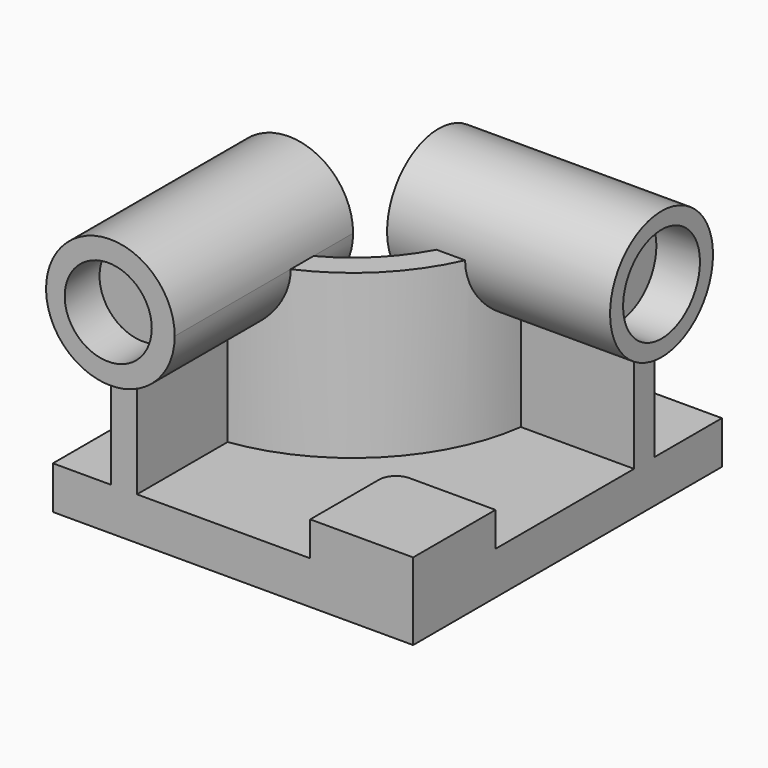
from build123d import *

# Parameters (mm, degrees)
F0_W          = 210
F0_H          = 225
F1_DEPTH      = 25
F3_DEPTH      = 95
F5_DEPTH      = 10
F5_DEPTH_BACK = 120
F7_DEPTH      = 10
F7_DEPTH_BACK = 120
F8_W          = 60
F8_H          = 60
F9_DEPTH      = 20
F10_R         = 10
F12_R         = 25.3785837957
F13_DEPTH     = 25.4
F14_R         = 27.9917909544
F15_DEPTH     = 25.4


with BuildPart() as f1:
    # F0 (on Top) → F1 (new body)
    with BuildSketch(Plane.XY):
        Rectangle(F0_W, F0_H)
    extrude(amount=F1_DEPTH)

    # F2 (on face) → F3 (join)
    with BuildSketch(Plane.XY.offset(25)):
        with BuildLine():
            Line((-71, -32.5), (-71, -112.5))
            Line((-71, -112.5), (-56, -112.5))
            Line((-56, -112.5), (-56, -46.4818166789))
            ThreePointArc((-56, -46.4818166789), (7.4888527117, -14.9888527117), (38.9818166789, 48.5))
            Line((38.9818166789, 48.5), (105, 48.5))
            Line((105, 48.5), (105, 63.5))
            Line((105, 63.5), (25, 63.5))
            ThreePointArc((25, 63.5), (-3.1177490061, -4.3822509939), (-71, -32.5))
        make_face()
    extrude(amount=F3_DEPTH)

    # F4 (on face) → F5 (join, two sides)
    with BuildSketch(Plane.XZ.offset(112.5)) as f5_sk:
        with BuildLine():
            ThreePointArc((-56, 83.2576538583), (-34.4526249034, 96.2829175487), (-26, 120))
            ThreePointArc((-26, 120), (-87.2170824513, 149.0473750966), (-71, 83.2576538583))
            Line((-71, 83.2576538583), (-71, 120))
            Line((-71, 120), (-56, 120))
            Line((-56, 120), (-56, 83.2576538583))
        make_face()
        with BuildLine():
            Line((-71, 120), (-71, 83.2576538583))
            ThreePointArc((-71, 83.2576538583), (-63.5, 82.5), (-56, 83.2576538583))
            Line((-56, 83.2576538583), (-56, 120))
            Line((-56, 120), (-71, 120))
        make_face()
    extrude(amount=F5_DEPTH)
    extrude(f5_sk.sketch, amount=-F5_DEPTH_BACK)

    # F6 (on face) → F7 (join, two sides)
    with BuildSketch(Plane.YZ.offset(105)) as f7_sk:
        with BuildLine():
            Line((48.5, 120), (48.5, 83.2576538583))
            ThreePointArc((48.5, 83.2576538583), (56, 82.5), (63.5, 83.2576538583))
            Line((63.5, 83.2576538583), (63.5, 120))
            Line((63.5, 120), (48.5, 120))
        make_face()
        with BuildLine():
            ThreePointArc((63.5, 83.2576538583), (85.0473750966, 96.2829175487), (93.5, 120))
            ThreePointArc((93.5, 120), (32.2829175487, 149.0473750966), (48.5, 83.2576538583))
            Line((48.5, 83.2576538583), (48.5, 120))
            Line((48.5, 120), (63.5, 120))
            Line((63.5, 120), (63.5, 83.2576538583))
        make_face()
    extrude(amount=F7_DEPTH)
    extrude(f7_sk.sketch, amount=-F7_DEPTH_BACK)

    # F8 (on face) → F9 (join)
    with BuildSketch(Plane.XY.offset(25)):
        with Locations((75, -82.5)):
            Rectangle(F8_W, F8_H)
    extrude(amount=F9_DEPTH)

    # F10
    f10_edges = [f1.edges().sort_by_distance(p)[0] for p in [
        (45, -52.5, 35),
    ]]
    fillet(f10_edges, radius=F10_R)

    # F12 (on face) → F13 (cut)
    with BuildSketch(Plane.XZ.offset(122.5)):
        with Locations((-64.7613108158, 119.6997389197)):
            Circle(F12_R)
    extrude(amount=-F13_DEPTH, mode=Mode.SUBTRACT)

    # F14 (on face) → F15 (cut)
    with BuildSketch(Plane.YZ.offset(115)):
        with Locations((56, 120)):
            Circle(F14_R)
    extrude(amount=-F15_DEPTH, mode=Mode.SUBTRACT)


solid = f1.part
